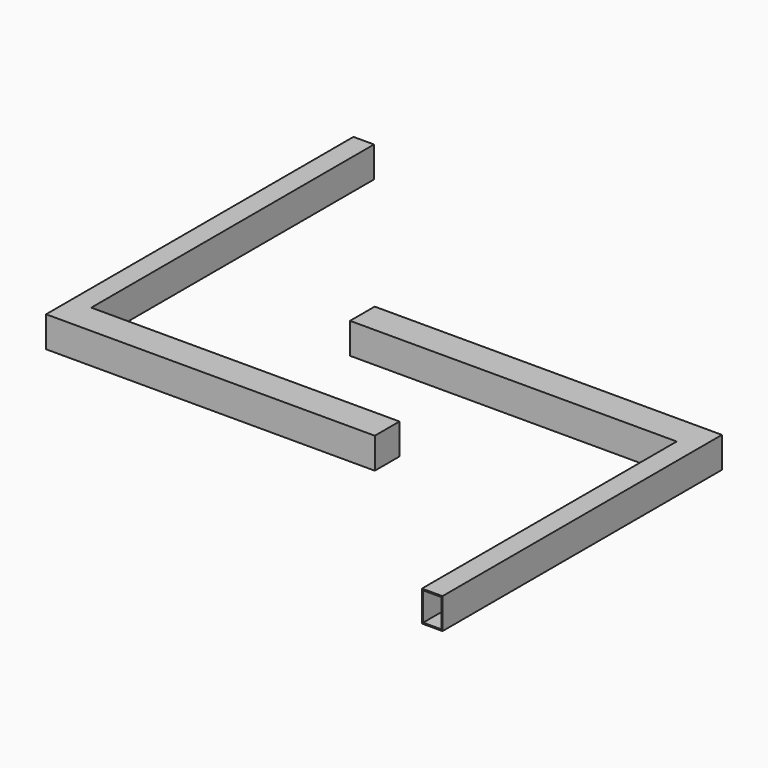
from build123d import *

# Parameters (mm, degrees)
F0_W     = 750
F0_H     = 75
F0_W_2   = 50
F0_H_2   = 860
F1_DEPTH = 75
F2_T     = -3
F3_DEPTH = 75
F0_W_3   = 795
F0_H_3   = 775
F4_T     = -3


with BuildPart() as f1:
    # F0 (on Top) → F1 (new body)
    with BuildSketch(Plane.XY):
        with Locations((375, -37.5)):
            Rectangle(F0_W, F0_H)
        with Locations((-25, 430)):
            Rectangle(F0_W_2, F0_H_2)
        with Locations((-25, -37.5)):
            Rectangle(F0_W_2, F0_H)
    extrude(amount=F1_DEPTH)

    # F2
    f2_openings = [f1.faces().sort_by_distance(p)[0] for p in [
        (750, -37.5, 37.5),
        (-25, 860, 37.5),
    ]]
    offset(amount=F2_T, openings=f2_openings, kind=Kind.INTERSECTION)

    # F0 (on Top) → F3 (join)
    with BuildSketch(Plane.XY):
        with Locations((375, -37.5)):
            Rectangle(F0_W, F0_H)
        with Locations((-25, -37.5)):
            Rectangle(F0_W_2, F0_H)
        with Locations((-25, 430)):
            Rectangle(F0_W_2, F0_H_2)
    extrude(amount=F3_DEPTH)


with BuildPart() as f3:
    # F0 (on Top) → F3, piece 2 (new body)
    with BuildSketch(Plane.XY):
        with Locations((815.3189337254, 302.3237943649)):
            Rectangle(F0_W_3, F0_H)
        with Locations((1237.8189337254, 302.3237943649)):
            Rectangle(F0_W_2, F0_H)
        with Locations((1237.8189337254, -122.6762056351)):
            Rectangle(F0_W_2, F0_H_3)
    extrude(amount=F3_DEPTH)

    # F4
    f4_openings = [f3.faces().sort_by_distance(p)[0] for p in [
        (417.818934, 302.323794, 37.5),
        (1237.818934, -510.176206, 37.5),
    ]]
    offset(amount=F4_T, openings=f4_openings, kind=Kind.INTERSECTION)


solid = Compound([f1.part, f3.part])
